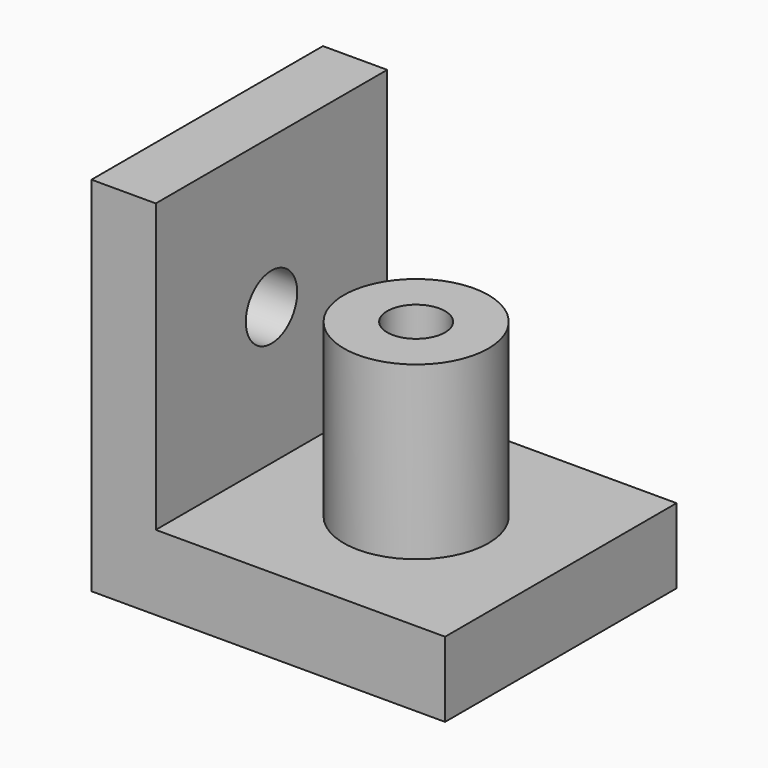
from build123d import *

# Parameters (mm, degrees)
SKETCH007_W   = 13.5
SKETCH007_H   = 13.5
PAD005_DEPTH  = 3.5
SKETCH008_R   = 3.375
SKETCH008_R_2 = 1.35
PAD006_DEPTH  = 8
SKETCH009_W   = 13.5
SKETCH009_H   = 16.91
SKETCH009_R   = 1.5
PAD007_DEPTH  = 3


with BuildPart() as part:
    # Sketch007 → Pad005 (new body)
    with BuildSketch(Plane.XY):
        with Locations((6.75, 6.75)):
            Rectangle(SKETCH007_W, SKETCH007_H)
    extrude(amount=PAD005_DEPTH)

    # Sketch008 (on Face6 of Pad005) → Pad006 (join)
    with BuildSketch(Plane.XY.offset(3.5)):
        with Locations((6.75, 6.75)):
            Circle(SKETCH008_R)
        with Locations((6.75, 6.75)):
            Circle(SKETCH008_R_2, mode=Mode.SUBTRACT)
    extrude(amount=PAD006_DEPTH)

    # Sketch009 (on Face2 of Pad006) → Pad007 (join)
    with BuildSketch(Plane(origin=(0, 0, 0), x_dir=(0, -1, 0), z_dir=(-1, 0, 0))):
        with Locations((-6.75, 8.455)):
            Rectangle(SKETCH009_W, SKETCH009_H)
        with Locations((-6.75, 9.91)):
            Circle(SKETCH009_R, mode=Mode.SUBTRACT)
    extrude(amount=PAD007_DEPTH)


solid = part.part
